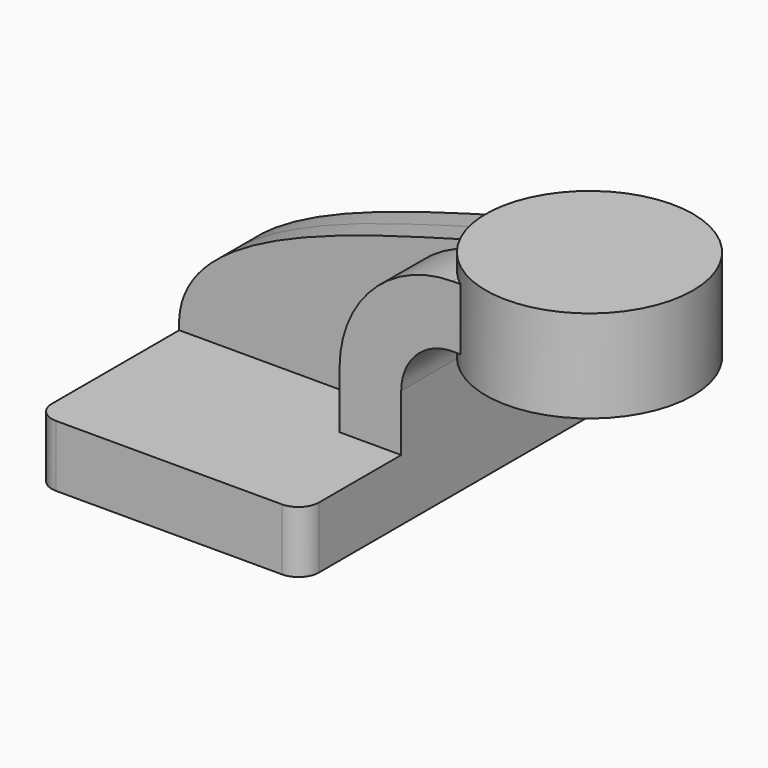
from build123d import *

# Parameters (mm, degrees)
F1_DEPTH = 63.5
F2_DEPTH = 25.4
F3_DEPTH = 7.9375
F5_R     = 6.35


with BuildPart() as f1:
    # F0 (on Front) → F1 (new body, symmetric)
    with BuildSketch(Plane.XZ):
        Polygon((-41.275, -9.525), (41.275, -9.525), (41.275, 9.525), (22.225, 9.525), (-41.275, 9.525), align=None)
    extrude(amount=F1_DEPTH, both=True)

    # F0 (on Front) → F2 (join, symmetric)
    with BuildSketch(Plane.XZ):
        with BuildLine():
            Line((22.225, 9.525), (41.275, 9.525))
            Line((41.275, 9.525), (41.275, 27.0002))
            ThreePointArc((41.275, 27.0002), (45.92468, 38.22552), (57.15, 42.8752))
            Line((57.15, 42.8752), (60.325, 42.8752))
            Line((60.325, 42.8752), (60.325, 61.9252))
            Line((60.325, 61.9252), (57.15, 61.9252))
            ThreePointArc((57.15, 61.9252), (32.454296, 51.695904), (22.225, 27.0002))
            Line((22.225, 27.0002), (22.225, 9.525))
        make_face()
    extrude(amount=F2_DEPTH, both=True)

    # F0 (on Front) → F3 (join, symmetric)
    with BuildSketch(Plane.XZ):
        with BuildLine():
            add(Edge.make_bspline(
                [(-41.275, 9.525), (-43.483493, 41.179909), (17.105941, 54.288729), (60.325, 66.675)],
                knots=[0, 0, 0, 0, 116.570504, 116.570504, 116.570504, 116.570504], degree=3))
            Line((-41.275, 9.525), (22.225, 9.525))
            Line((22.225, 9.525), (22.225, 27.0002))
            ThreePointArc((22.225, 27.0002), (32.454296, 51.695904), (57.15, 61.9252))
            Line((57.15, 61.9252), (60.325, 61.9252))
            Line((60.325, 61.9252), (60.325, 66.675))
        make_face()
    extrude(amount=F3_DEPTH, both=True)

    # F0 (on Front) → F4 (revolve)
    with BuildSketch(Plane.XZ):
        Polygon((111.125, 66.675), (79.115786, 66.675), (79.115786, 61.9252), (79.115786, 42.8752), (79.115786, 38.1), (111.125, 38.1), align=None)
    revolve(axis=Axis((79.115786, 0, 52.3875), (0, 0, 1)))

    # F5
    f5_edges = [f1.edges().sort_by_distance(p)[0] for p in [
        (41.275, -63.5, 0),
        (-41.275, -63.5, 0),
        (-41.275, 63.5, 0),
        (41.275, 63.5, 0),
    ]]
    fillet(f5_edges, radius=F5_R)


solid = f1.part
